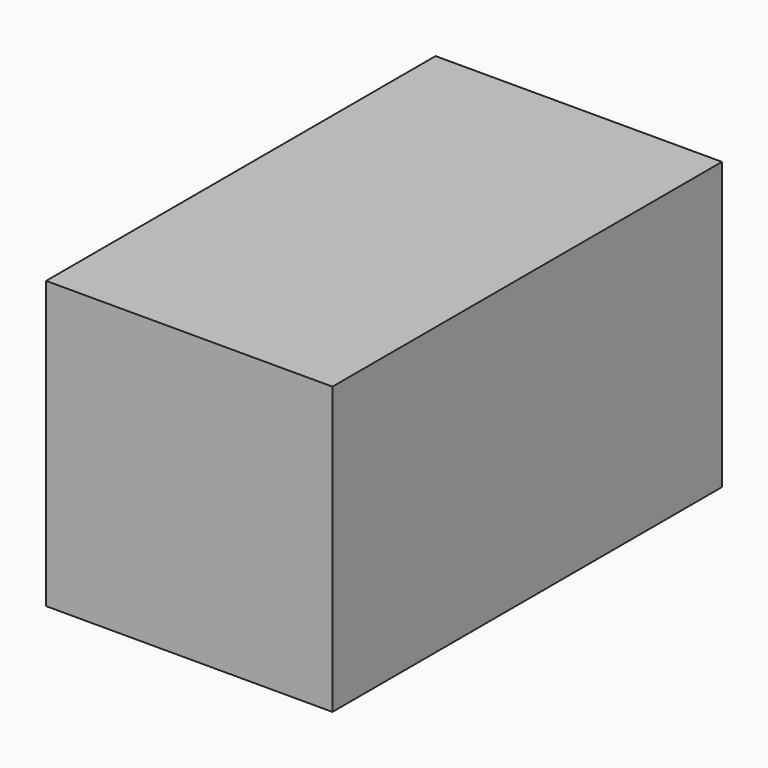
from build123d import *

# Parameters (mm, degrees)
SKETCH002_W   = 3000
SKETCH002_H   = 3000
SKETCH002_W_2 = 2100
SKETCH002_H_2 = 2100
PAD_DEPTH     = 2000
SKETCH003_W   = 3000
SKETCH003_H   = 3000
PAD001_DEPTH  = 450
SKETCH004_W   = 3000
SKETCH004_H   = 3000
PAD002_DEPTH  = 650


with BuildPart() as part:
    # Sketch002 → Pad (new body, symmetric)
    with BuildSketch(Plane.XZ):
        Rectangle(SKETCH002_W, SKETCH002_H)
        Rectangle(SKETCH002_W_2, SKETCH002_H_2, mode=Mode.SUBTRACT)
    extrude(amount=PAD_DEPTH, both=True)

    # Sketch003 (on Face10 of Pad) → Pad001 (join)
    with BuildSketch(Plane.XZ.offset(2000)):
        Rectangle(SKETCH003_W, SKETCH003_H)
    extrude(amount=PAD001_DEPTH)

    # Sketch004 (on Face1 of Pad001) → Pad002 (join)
    with BuildSketch(Plane(origin=(0, 2000, 0), x_dir=(1, 0, 0), z_dir=(0, 1, 0))):
        Rectangle(SKETCH004_W, SKETCH004_H)
    extrude(amount=PAD002_DEPTH)


solid = part.part
